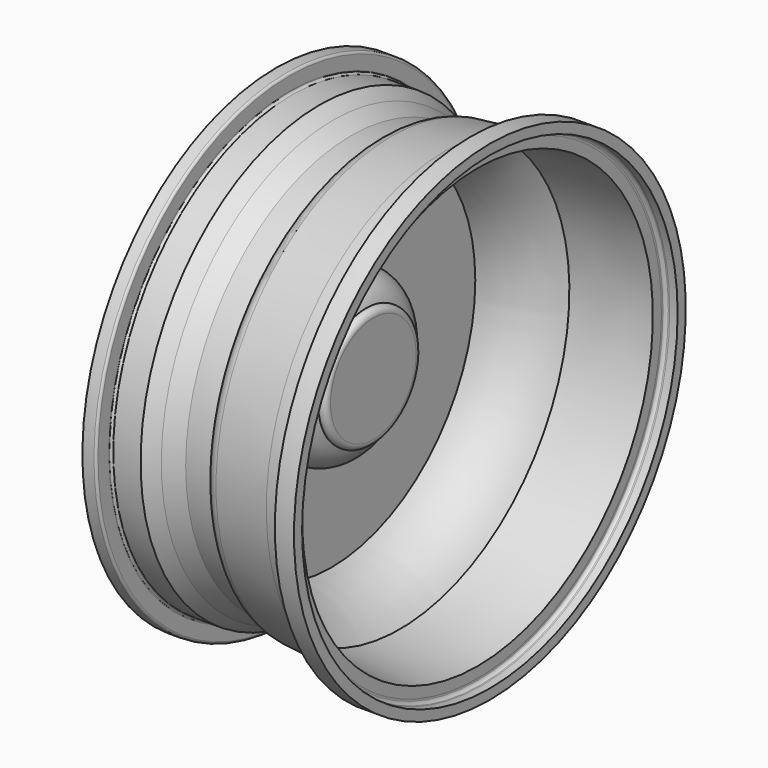
from build123d import *


with BuildPart() as f1:
    # F0 (on Front) → F1 (revolve)
    with BuildSketch(Plane.XZ):
        with BuildLine():
            Line((-20.125344, 0), (0, 0))
            Line((0, 0), (0, 46.50421))
            ThreePointArc((0, 46.50421), (-1.733055, 50.94133), (-6.37913, 51.992755))
            ThreePointArc((-6.37913, 51.992755), (-17.653706, 67.685878), (-36.36976, 72.49207))
            Line((-36.36976, 72.49207), (-36.36976, 156.270221))
            ThreePointArc((-36.36976, 156.270221), (-3.067339, 162.643417), (23.03244, 184.287593))
            Line((23.03244, 184.287593), (90.550087, 190.647945))
            Line((90.550087, 190.647945), (90.550087, 199.968547))
            ThreePointArc((90.550087, 199.968547), (90.449127, 200.787406), (90.550087, 201.606266))
            ThreePointArc((90.550087, 201.606266), (91.512359, 203.24472), (93.207833, 204.102546))
            ThreePointArc((93.207833, 204.102546), (93.820384, 204.158663), (94.432935, 204.102546))
            Line((94.432935, 204.102546), (101.313777, 204.102546))
            Line((101.313777, 204.102546), (101.313777, 212.909207))
            Line((101.313777, 212.909207), (84.678993, 212.909207))
            Line((84.678993, 212.909207), (84.678993, 202.839538))
            ThreePointArc((84.678993, 202.839538), (83.281007, 199.101724), (80.001603, 196.827713))
            ThreePointArc((80.001603, 196.827713), (78.613003, 196.55081), (77.197234, 196.572771))
            Line((77.197234, 196.572771), (63.15162, 195.2959))
            Line((63.15162, 195.2959), (15.693568, 190.647945))
            ThreePointArc((15.693568, 190.647945), (8.206973, 187.210783), (4.440625, 179.88427))
            Line((4.440625, 179.88427), (-19.288404, 179.88427))
            Line((-19.288404, 179.88427), (-35.189301, 186.489254))
            Line((-35.189301, 186.489254), (-46.931501, 194.317386))
            Line((-46.931501, 194.317386), (-70.73199, 194.317386))
            ThreePointArc((-70.73199, 194.317386), (-71.977467, 194.848568), (-72.617561, 196.041735))
            ThreePointArc((-72.617561, 196.041735), (-72.641985, 196.35676), (-72.617561, 196.671784))
            Line((-72.617561, 196.671784), (-72.617561, 208.129436))
            Line((-72.617561, 208.129436), (-72.617561, 208.491806))
            ThreePointArc((-72.617561, 208.491806), (-73.239143, 209.835986), (-74.579617, 210.465521))
            Line((-74.579617, 210.465521), (-74.967526, 210.465521))
            Line((-74.967526, 210.465521), (-84.61383, 210.465521))
            Line((-84.61383, 210.465521), (-84.61383, 204.347178))
            Line((-84.61383, 204.347178), (-78.877896, 204.347178))
            ThreePointArc((-78.877896, 204.347178), (-78.797808, 204.348275), (-78.717721, 204.347178))
            ThreePointArc((-78.717721, 204.347178), (-76.3842, 203.075837), (-76.042369, 200.440541))
            Line((-76.042369, 200.440541), (-76.042369, 194.394559))
            Line((-76.042369, 194.394559), (-76.042369, 193.819278))
            ThreePointArc((-76.042369, 193.819278), (-75.042218, 191.656661), (-72.883584, 190.647945))
            Line((-72.883584, 190.647945), (-50.111677, 190.647945))
            Line((-50.111677, 190.647945), (-38.795399, 182.564896))
            Line((-38.795399, 182.564896), (-38.795399, 174.898669))
            ThreePointArc((-38.795399, 174.898669), (-38.674533, 172.196718), (-41.376484, 172.075853))
            Line((-41.376484, 172.075853), (-53.081522, 172.075853))
            ThreePointArc((-53.081522, 172.075853), (-56.766354, 169.312062), (-57.007169, 164.712222))
            Line((-57.007169, 164.712222), (-57.007169, 40.803183))
            Line((-57.007169, 40.803183), (-26.307284, 40.803183))
            ThreePointArc((-26.307284, 40.803183), (-21.935993, 38.992535), (-20.125344, 34.621243))
            Line((-20.125344, 34.621243), (-20.125344, 0))
        make_face()
    revolve(axis=Axis((-10.062672, 0, 0), (-1, 0, 0)))


solid = f1.part
